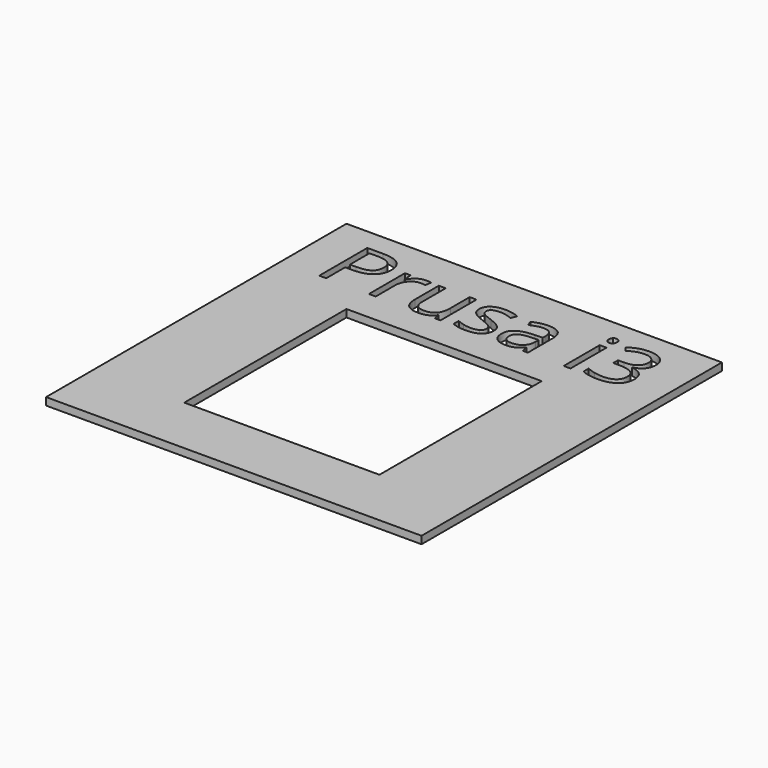
from build123d import *

# Parameters (mm, degrees)
F0_W     = 500
F0_H     = 500
F0_W_2   = 260
F0_H_2   = 270
F0_W_3   = 9.0874223538
F0_H_3   = 59.9699837412
F1_DEPTH = 10
F2_DEPTH = 10
F3_DEPTH = 10


with BuildPart() as f1:
    # F0 (on Top) → F1 (new body)
    with BuildSketch(Plane.XY):
        Rectangle(F0_W, F0_H)
        with Locations((0, -35)):
            Rectangle(F0_W_2, F0_H_2, mode=Mode.SUBTRACT)
        with BuildLine():
            add(Edge.make_bspline(
                [(-178.2553049569, 220.977798943), (-148.2790678284, 220.977798943), (-148.2790678284, 197.6726753344)],
                knots=[0, 0, 0, 1, 1, 1], degree=2))
            add(Edge.make_bspline(
                [(-148.2790678284, 197.6726753344), (-148.2790678284, 185.5210932274), (-156.5698086464, 178.9813008399)],
                knots=[0, 0, 0, 1, 1, 1], degree=2))
            add(Edge.make_bspline(
                [(-156.5698086464, 178.9813008399), (-164.8605494643, 172.4415084523), (-180.2864051361, 172.4415084523)],
                knots=[0, 0, 0, 1, 1, 1], degree=2))
            Line((-180.2864051361, 172.4415084523), (-189.7065076917, 172.4415084523))
            Line((-189.7065076917, 172.4415084523), (-189.7065076917, 140.976965158))
            Line((-189.7065076917, 140.976965158), (-199.0040438571, 140.976965158))
            Line((-199.0040438571, 140.976965158), (-199.0040438571, 220.977798943))
            Line((-199.0040438571, 220.977798943), (-178.2553049569, 220.977798943))
        make_face(mode=Mode.SUBTRACT)
        with BuildLine():
            add(Edge.make_bspline(
                [(-115.886521866, 198.8720750092), (-111.1764705882, 202.0500464104), (-105.5384166423, 202.0500464104)],
                knots=[0, 0, 0, 1, 1, 1], degree=2))
            add(Edge.make_bspline(
                [(-105.5384166423, 202.0500464104), (-101.546254221, 202.0500464104), (-98.377037562, 201.3846860068)],
                knots=[0, 0, 0, 1, 1, 1], degree=2))
            Line((-98.377037562, 201.3846860068), (-99.6377204319, 192.9626240566))
            add(Edge.make_bspline(
                [(-99.6377204319, 192.9626240566), (-103.3497311043, 193.7855698189), (-106.2037770459, 193.7855698189)],
                knots=[0, 0, 0, 1, 1, 1], degree=2))
            add(Edge.make_bspline(
                [(-106.2037770459, 193.7855698189), (-113.4877225164, 193.7855698189), (-118.653020386, 187.8761188663)],
                knots=[0, 0, 0, 1, 1, 1], degree=2))
            add(Edge.make_bspline(
                [(-118.653020386, 187.8761188663), (-123.8183182557, 181.9666679137), (-123.8183182557, 173.1593973088)],
                knots=[0, 0, 0, 1, 1, 1], degree=2))
            Line((-123.8183182557, 173.1593973088), (-123.8183182557, 140.976965158))
            Line((-123.8183182557, 140.976965158), (-132.9057406095, 140.976965158))
            Line((-132.9057406095, 140.976965158), (-132.9057406095, 200.9469488992))
            Line((-132.9057406095, 200.9469488992), (-125.4116813274, 200.9469488992))
            Line((-125.4116813274, 200.9469488992), (-124.3611122691, 189.8459358505))
            Line((-124.3611122691, 189.8459358505), (-123.9233751615, 189.8459358505))
            add(Edge.make_bspline(
                [(-123.9233751615, 189.8459358505), (-120.5965731438, 195.694103608), (-115.886521866, 198.8720750092)],
                knots=[0, 0, 0, 1, 1, 1], degree=2))
        make_face(mode=Mode.SUBTRACT)
        with BuildLine():
            Line((-87.8013090424, 200.9469488992), (-78.6088297828, 200.9469488992))
            Line((-78.6088297828, 200.9469488992), (-78.6088297828, 162.0408747757))
            add(Edge.make_bspline(
                [(-78.6088297828, 162.0408747757), (-78.6088297828, 154.7044008524), (-75.2732730229, 151.0974470857)],
                knots=[0, 0, 0, 1, 1, 1], degree=2))
            add(Edge.make_bspline(
                [(-75.2732730229, 151.0974470857), (-71.937716263, 147.4904933191), (-64.8288656356, 147.4904933191)],
                knots=[0, 0, 0, 1, 1, 1], degree=2))
            add(Edge.make_bspline(
                [(-64.8288656356, 147.4904933191), (-55.40876308, 147.4904933191), (-51.0664109726, 152.6295269623)],
                knots=[0, 0, 0, 1, 1, 1], degree=2))
            add(Edge.make_bspline(
                [(-51.0664109726, 152.6295269623), (-46.7240588652, 157.7685606056), (-46.7240588652, 169.429877152)],
                knots=[0, 0, 0, 1, 1, 1], degree=2))
            Line((-46.7240588652, 169.429877152), (-46.7240588652, 200.9469488992))
            Line((-46.7240588652, 200.9469488992), (-37.6366365114, 200.9469488992))
            Line((-37.6366365114, 200.9469488992), (-37.6366365114, 140.976965158))
            Line((-37.6366365114, 140.976965158), (-45.1306957936, 140.976965158))
            Line((-45.1306957936, 140.976965158), (-46.4439071164, 149.0138184536))
            Line((-46.4439071164, 149.0138184536), (-46.9341726769, 149.0138184536))
            add(Edge.make_bspline(
                [(-46.9341726769, 149.0138184536), (-49.7181806812, 144.5839189246), (-54.6733647392, 142.2288932858)],
                knots=[0, 0, 0, 1, 1, 1], degree=2))
            add(Edge.make_bspline(
                [(-54.6733647392, 142.2288932858), (-59.6285487973, 139.8738676469), (-65.9844915996, 139.8738676469)],
                knots=[0, 0, 0, 1, 1, 1], degree=2))
            add(Edge.make_bspline(
                [(-65.9844915996, 139.8738676469), (-76.9279192896, 139.8738676469), (-82.364614166, 145.0741844852)],
                knots=[0, 0, 0, 1, 1, 1], degree=2))
            add(Edge.make_bspline(
                [(-82.364614166, 145.0741844852), (-87.8013090424, 150.2745013234), (-87.8013090424, 161.708194574)],
                knots=[0, 0, 0, 1, 1, 1], degree=2))
            Line((-87.8013090424, 161.708194574), (-87.8013090424, 200.9469488992))
        make_face(mode=Mode.SUBTRACT)
        with BuildLine():
            add(Edge.make_bspline(
                [(16.5552174094, 167.241191614), (20.3022470505, 163.3015576456), (20.3022470505, 157.330823498)],
                knots=[0, 0, 0, 1, 1, 1], degree=2))
            add(Edge.make_bspline(
                [(20.3022470505, 157.330823498), (20.3022470505, 148.9612900006), (14.0688706383, 144.4175788238)],
                knots=[0, 0, 0, 1, 1, 1], degree=2))
            add(Edge.make_bspline(
                [(14.0688706383, 144.4175788238), (7.835494226, 139.8738676469), (-3.4406136657, 139.8738676469)],
                knots=[0, 0, 0, 1, 1, 1], degree=2))
            add(Edge.make_bspline(
                [(-3.4406136657, 139.8738676469), (-15.3645724768, 139.8738676469), (-22.0356859966, 143.6559162565)],
                knots=[0, 0, 0, 1, 1, 1], degree=2))
            Line((-22.0356859966, 143.6559162565), (-22.0356859966, 152.0779782068))
            add(Edge.make_bspline(
                [(-22.0356859966, 152.0779782068), (-17.7108433735, 149.8892926688), (-12.7644140576, 148.637364541)],
                knots=[0, 0, 0, 1, 1, 1], degree=2))
            add(Edge.make_bspline(
                [(-12.7644140576, 148.637364541), (-7.8179847417, 147.3854364133), (-3.2129903698, 147.3854364133)],
                knots=[0, 0, 0, 1, 1, 1], degree=2))
            add(Edge.make_bspline(
                [(-3.2129903698, 147.3854364133), (3.8958602576, 147.3854364133), (7.7216825781, 149.6529146307)],
                knots=[0, 0, 0, 1, 1, 1], degree=2))
            add(Edge.make_bspline(
                [(7.7216825781, 149.6529146307), (11.5475048985, 151.920392848), (11.5475048985, 156.5779156729)],
                knots=[0, 0, 0, 1, 1, 1], degree=2))
            add(Edge.make_bspline(
                [(11.5475048985, 156.5779156729), (11.5475048985, 160.0798125337), (8.5183641139, 162.5661593049)],
                knots=[0, 0, 0, 1, 1, 1], degree=2))
            add(Edge.make_bspline(
                [(8.5183641139, 162.5661593049), (5.4892233293, 165.052506076), (-3.3355567599, 168.449346031)],
                knots=[0, 0, 0, 1, 1, 1], degree=2))
            add(Edge.make_bspline(
                [(-3.3355567599, 168.449346031), (-11.7050902572, 171.5660342371), (-15.2332513445, 173.8947956495)],
                knots=[0, 0, 0, 1, 1, 1], degree=2))
            add(Edge.make_bspline(
                [(-15.2332513445, 173.8947956495), (-18.7614124317, 176.223557062), (-20.4860966357, 179.1739051672)],
                knots=[0, 0, 0, 1, 1, 1], degree=2))
            add(Edge.make_bspline(
                [(-20.4860966357, 179.1739051672), (-22.2107808396, 182.1242532724), (-22.2107808396, 186.2214725996)],
                knots=[0, 0, 0, 1, 1, 1], degree=2))
            add(Edge.make_bspline(
                [(-22.2107808396, 186.2214725996), (-22.2107808396, 193.5579465229), (-16.240046692, 197.8039964666)],
                knots=[0, 0, 0, 1, 1, 1], degree=2))
            add(Edge.make_bspline(
                [(-16.240046692, 197.8039964666), (-10.2693125443, 202.0500464104), (0.113811648, 202.0500464104)],
                knots=[0, 0, 0, 1, 1, 1], degree=2))
            add(Edge.make_bspline(
                [(0.113811648, 202.0500464104), (9.7965564681, 202.0500464104), (19.0590736649, 198.110412442)],
                knots=[0, 0, 0, 1, 1, 1], degree=2))
            Line((19.0590736649, 198.110412442), (15.8198190687, 190.7214100657))
            add(Edge.make_bspline(
                [(15.8198190687, 190.7214100657), (6.8024346521, 194.4334207381), (-0.5340392713, 194.4334207381)],
                knots=[0, 0, 0, 1, 1, 1], degree=2))
            add(Edge.make_bspline(
                [(-0.5340392713, 194.4334207381), (-6.9950389794, 194.4334207381), (-10.2780672864, 192.411075301)],
                knots=[0, 0, 0, 1, 1, 1], degree=2))
            add(Edge.make_bspline(
                [(-10.2780672864, 192.411075301), (-13.5610955934, 190.3887298639), (-13.5610955934, 186.8343045502)],
                knots=[0, 0, 0, 1, 1, 1], degree=2))
            add(Edge.make_bspline(
                [(-13.5610955934, 186.8343045502), (-13.5610955934, 184.4179957162), (-12.32667695, 182.7283304809)],
                knots=[0, 0, 0, 1, 1, 1], degree=2))
            add(Edge.make_bspline(
                [(-12.32667695, 182.7283304809), (-11.0922583066, 181.0386652456), (-8.3607787552, 179.506585369)],
                knots=[0, 0, 0, 1, 1, 1], degree=2))
            add(Edge.make_bspline(
                [(-8.3607787552, 179.506585369), (-5.6292992037, 177.9745054924), (2.1449118272, 175.0679310979)],
                knots=[0, 0, 0, 1, 1, 1], degree=2))
            add(Edge.make_bspline(
                [(2.1449118272, 175.0679310979), (12.8081877684, 171.1808255824), (16.5552174094, 167.241191614)],
                knots=[0, 0, 0, 1, 1, 1], degree=2))
        make_face(mode=Mode.SUBTRACT)
        with BuildLine():
            Line((78.6963772043, 140.976965158), (71.9552257473, 140.976965158))
            Line((71.9552257473, 140.976965158), (70.151748864, 149.5215934984))
            Line((70.151748864, 149.5215934984), (69.7140117564, 149.5215934984))
            add(Edge.make_bspline(
                [(69.7140117564, 149.5215934984), (65.2315837745, 143.8835395525), (60.7754200192, 141.8787035997)],
                knots=[0, 0, 0, 1, 1, 1], degree=2))
            add(Edge.make_bspline(
                [(60.7754200192, 141.8787035997), (56.3192562638, 139.8738676469), (49.6306332597, 139.8738676469)],
                knots=[0, 0, 0, 1, 1, 1], degree=2))
            add(Edge.make_bspline(
                [(49.6306332597, 139.8738676469), (40.7183057489, 139.8738676469), (35.6580647851, 144.4788620188)],
                knots=[0, 0, 0, 1, 1, 1], degree=2))
            add(Edge.make_bspline(
                [(35.6580647851, 144.4788620188), (30.5978238212, 149.0838563908), (30.5978238212, 157.5584467939)],
                knots=[0, 0, 0, 1, 1, 1], degree=2))
            add(Edge.make_bspline(
                [(30.5978238212, 157.5584467939), (30.5978238212, 175.7157820172), (59.6460582816, 176.5912562324)],
                knots=[0, 0, 0, 1, 1, 1], degree=2))
            Line((59.6460582816, 176.5912562324), (69.8190686622, 176.9239364341))
            Line((69.8190686622, 176.9239364341), (69.8190686622, 180.6534565909))
            add(Edge.make_bspline(
                [(69.8190686622, 180.6534565909), (69.8190686622, 187.7097787654), (66.7899278776, 191.0715997518)],
                knots=[0, 0, 0, 1, 1, 1], degree=2))
            add(Edge.make_bspline(
                [(66.7899278776, 191.0715997518), (63.760787093, 194.4334207381), (57.0721640889, 194.4334207381)],
                knots=[0, 0, 0, 1, 1, 1], degree=2))
            add(Edge.make_bspline(
                [(57.0721640889, 194.4334207381), (49.5781048068, 194.4334207381), (40.1229832826, 189.8459358505)],
                knots=[0, 0, 0, 1, 1, 1], degree=2))
            Line((40.1229832826, 189.8459358505), (37.321465794, 196.7972011192))
            add(Edge.make_bspline(
                [(37.321465794, 196.7972011192), (41.7513653229, 199.1960004688), (47.0304748405, 200.5617402445)],
                knots=[0, 0, 0, 1, 1, 1], degree=2))
            add(Edge.make_bspline(
                [(47.0304748405, 200.5617402445), (52.3095843582, 201.9274800202), (57.6324675866, 201.9274800202)],
                knots=[0, 0, 0, 1, 1, 1], degree=2))
            add(Edge.make_bspline(
                [(57.6324675866, 201.9274800202), (68.3482719807, 201.9274800202), (73.5223245925, 197.1736550317)],
                knots=[0, 0, 0, 1, 1, 1], degree=2))
            add(Edge.make_bspline(
                [(73.5223245925, 197.1736550317), (78.6963772043, 192.4198300432), (78.6963772043, 181.9141394608)],
                knots=[0, 0, 0, 1, 1, 1], degree=2))
            Line((78.6963772043, 181.9141394608), (78.6963772043, 140.976965158))
        make_face(mode=Mode.SUBTRACT)
        with Locations((131.0584900154, 170.9619570286)):
            Rectangle(F0_W_3, F0_H_3, mode=Mode.SUBTRACT)
        with BuildLine():
            add(Edge.make_bspline(
                [(193.8212365031, 216.7842774522), (200.2822362113, 211.4526394816), (200.2822362113, 202.1551033162)],
                knots=[0, 0, 0, 1, 1, 1], degree=2))
            add(Edge.make_bspline(
                [(200.2822362113, 202.1551033162), (200.2822362113, 194.485949191), (195.9836578146, 189.6183125545)],
                knots=[0, 0, 0, 1, 1, 1], degree=2))
            add(Edge.make_bspline(
                [(195.9836578146, 189.6183125545), (191.685079418, 184.750675918), (183.8058114812, 183.1047843934)],
                knots=[0, 0, 0, 1, 1, 1], degree=2))
            Line((183.8058114812, 183.1047843934), (183.8058114812, 182.6670472858))
            add(Edge.make_bspline(
                [(183.8058114812, 182.6670472858), (193.4360278484, 181.4764023532), (198.0847959311, 176.5474825216)],
                knots=[0, 0, 0, 1, 1, 1], degree=2))
            add(Edge.make_bspline(
                [(198.0847959311, 176.5474825216), (202.7335640138, 171.61856269), (202.7335640138, 163.6342378474)],
                knots=[0, 0, 0, 1, 1, 1], degree=2))
            add(Edge.make_bspline(
                [(202.7335640138, 163.6342378474), (202.7335640138, 152.2005445969), (194.8017676241, 146.0372061219)],
                knots=[0, 0, 0, 1, 1, 1], degree=2))
            add(Edge.make_bspline(
                [(194.8017676241, 146.0372061219), (186.8699712344, 139.8738676469), (172.2670613249, 139.8738676469)],
                knots=[0, 0, 0, 1, 1, 1], degree=2))
            add(Edge.make_bspline(
                [(172.2670613249, 139.8738676469), (165.9111185225, 139.8738676469), (160.6320090049, 140.8368892836)],
                knots=[0, 0, 0, 1, 1, 1], degree=2))
            add(Edge.make_bspline(
                [(160.6320090049, 140.8368892836), (155.3528994872, 141.7999109203), (150.3802059449, 144.19871027)],
                knots=[0, 0, 0, 1, 1, 1], degree=2))
            Line((150.3802059449, 144.19871027), (150.3802059449, 152.8483955161))
            add(Edge.make_bspline(
                [(150.3802059449, 152.8483955161), (155.5805227832, 150.2745013234), (161.4637095093, 148.9350257742)],
                knots=[0, 0, 0, 1, 1, 1], degree=2))
            add(Edge.make_bspline(
                [(161.4637095093, 148.9350257742), (167.3468962355, 147.5955502249), (172.5997415267, 147.5955502249)],
                knots=[0, 0, 0, 1, 1, 1], degree=2))
            add(Edge.make_bspline(
                [(172.5997415267, 147.5955502249), (193.3309709426, 147.5955502249), (193.3309709426, 163.844351659)],
                knots=[0, 0, 0, 1, 1, 1], degree=2))
            add(Edge.make_bspline(
                [(193.3309709426, 163.844351659), (193.3309709426, 178.4122426), (170.4635844416, 178.4122426)],
                knots=[0, 0, 0, 1, 1, 1], degree=2))
            Line((170.4635844416, 178.4122426), (162.5843165048, 178.4122426))
            Line((162.5843165048, 178.4122426), (162.5843165048, 186.2214725996))
            Line((162.5843165048, 186.2214725996), (170.5686413474, 186.2214725996))
            add(Edge.make_bspline(
                [(170.5686413474, 186.2214725996), (179.9187059657, 186.2214725996), (185.3904198107, 190.3537108953)],
                knots=[0, 0, 0, 1, 1, 1], degree=2))
            add(Edge.make_bspline(
                [(185.3904198107, 190.3537108953), (190.8621336557, 194.485949191), (190.8621336557, 201.8224231144)],
                knots=[0, 0, 0, 1, 1, 1], degree=2))
            add(Edge.make_bspline(
                [(190.8621336557, 201.8224231144), (190.8621336557, 207.670590872), (186.843707008, 211.014902374)],
                knots=[0, 0, 0, 1, 1, 1], degree=2))
            add(Edge.make_bspline(
                [(186.843707008, 211.014902374), (182.8252803602, 214.3592138761), (175.9265435444, 214.3592138761)],
                knots=[0, 0, 0, 1, 1, 1], degree=2))
            add(Edge.make_bspline(
                [(175.9265435444, 214.3592138761), (170.6736982532, 214.3592138761), (166.0249301705, 212.9321909053)],
                knots=[0, 0, 0, 1, 1, 1], degree=2))
            add(Edge.make_bspline(
                [(166.0249301705, 212.9321909053), (161.3761620878, 211.5051679345), (155.4054279401, 207.670590872)],
                knots=[0, 0, 0, 1, 1, 1], degree=2))
            Line((155.4054279401, 207.670590872), (150.8179430525, 213.7989103784))
            add(Edge.make_bspline(
                [(150.8179430525, 213.7989103784), (155.7381081419, 217.6860158938), (162.1640888815, 219.9009656583)],
                knots=[0, 0, 0, 1, 1, 1], degree=2))
            add(Edge.make_bspline(
                [(162.1640888815, 219.9009656583), (168.590069621, 222.1159154228), (175.7164297328, 222.1159154228)],
                knots=[0, 0, 0, 1, 1, 1], degree=2))
            add(Edge.make_bspline(
                [(175.7164297328, 222.1159154228), (187.3602367949, 222.1159154228), (193.8212365031, 216.7842774522)],
                knots=[0, 0, 0, 1, 1, 1], degree=2))
        make_face(mode=Mode.SUBTRACT)
        with BuildLine():
            add(Edge.make_bspline(
                [(127.2764414058, 212.62577493), (125.7443615292, 214.1315905801), (125.7443615292, 217.1957503333)],
                knots=[0, 0, 0, 1, 1, 1], degree=2))
            add(Edge.make_bspline(
                [(125.7443615292, 217.1957503333), (125.7443615292, 220.3124385394), (127.2764414058, 221.7657257367)],
                knots=[0, 0, 0, 1, 1, 1], degree=2))
            add(Edge.make_bspline(
                [(127.2764414058, 221.7657257367), (128.8085212824, 223.2190129339), (131.1197732105, 223.2190129339)],
                knots=[0, 0, 0, 1, 1, 1], degree=2))
            add(Edge.make_bspline(
                [(131.1197732105, 223.2190129339), (133.3084587485, 223.2190129339), (134.893067078, 221.7394615102)],
                knots=[0, 0, 0, 1, 1, 1], degree=2))
            add(Edge.make_bspline(
                [(134.893067078, 221.7394615102), (136.4776754075, 220.2599100865), (136.4776754075, 217.1957503333)],
                knots=[0, 0, 0, 1, 1, 1], degree=2))
            add(Edge.make_bspline(
                [(136.4776754075, 217.1957503333), (136.4776754075, 214.1315905801), (134.893067078, 212.62577493)],
                knots=[0, 0, 0, 1, 1, 1], degree=2))
            add(Edge.make_bspline(
                [(134.893067078, 212.62577493), (133.3084587485, 211.1199592798), (131.1197732105, 211.1199592798)],
                knots=[0, 0, 0, 1, 1, 1], degree=2))
            add(Edge.make_bspline(
                [(131.1197732105, 211.1199592798), (128.8085212824, 211.1199592798), (127.2764414058, 212.62577493)],
                knots=[0, 0, 0, 1, 1, 1], degree=2))
        make_face(mode=Mode.SUBTRACT)
    extrude(amount=F1_DEPTH)


with BuildPart() as f2:
    # F0 (on Top) → F2 (new body)
    with BuildSketch(Plane.XY):
        with BuildLine():
            Line((-189.7065076917, 212.9234361632), (-189.7065076917, 180.4258332949))
            Line((-189.7065076917, 180.4258332949), (-181.3194647101, 180.4258332949))
            add(Edge.make_bspline(
                [(-181.3194647101, 180.4258332949), (-168.9577687914, 180.4258332949), (-163.4335264935, 184.4179957162)],
                knots=[0, 0, 0, 1, 1, 1], degree=2))
            add(Edge.make_bspline(
                [(-163.4335264935, 184.4179957162), (-157.9092841956, 188.4101581376), (-157.9092841956, 197.2349382268)],
                knots=[0, 0, 0, 1, 1, 1], degree=2))
            add(Edge.make_bspline(
                [(-157.9092841956, 197.2349382268), (-157.9092841956, 205.1667346165), (-163.1096010339, 209.0450853898)],
                knots=[0, 0, 0, 1, 1, 1], degree=2))
            add(Edge.make_bspline(
                [(-163.1096010339, 209.0450853898), (-168.3099178722, 212.9234361632), (-179.3058740151, 212.9234361632)],
                knots=[0, 0, 0, 1, 1, 1], degree=2))
            Line((-179.3058740151, 212.9234361632), (-189.7065076917, 212.9234361632))
        make_face()
    extrude(amount=F2_DEPTH)


with BuildPart() as f3:
    # F0 (on Top) → F3 (new body)
    with BuildSketch(Plane.XY):
        with BuildLine():
            add(Edge.make_bspline(
                [(43.0995956143, 149.9505758638), (46.076207946, 147.3854364133), (51.434110143, 147.3854364133)],
                knots=[0, 0, 0, 1, 1, 1], degree=2))
            add(Edge.make_bspline(
                [(51.434110143, 147.3854364133), (59.9262100304, 147.3854364133), (64.7675824405, 152.034204496)],
                knots=[0, 0, 0, 1, 1, 1], degree=2))
            add(Edge.make_bspline(
                [(64.7675824405, 152.034204496), (69.6089548505, 156.6829725787), (69.6089548505, 165.052506076)],
                knots=[0, 0, 0, 1, 1, 1], degree=2))
            Line((69.6089548505, 165.052506076), (69.6089548505, 170.462936726))
            Line((69.6089548505, 170.462936726), (60.5215324968, 170.0952375556))
            add(Edge.make_bspline(
                [(60.5215324968, 170.0952375556), (49.6831617126, 169.7100289009), (44.9030724976, 166.7246618271)],
                knots=[0, 0, 0, 1, 1, 1], degree=2))
            add(Edge.make_bspline(
                [(44.9030724976, 166.7246618271), (40.1229832826, 163.7392947532), (40.1229832826, 157.4533898881)],
                knots=[0, 0, 0, 1, 1, 1], degree=2))
            add(Edge.make_bspline(
                [(40.1229832826, 157.4533898881), (40.1229832826, 152.5157153144), (43.0995956143, 149.9505758638)],
                knots=[0, 0, 0, 1, 1, 1], degree=2))
        make_face()
    extrude(amount=F3_DEPTH)


solid = Compound([f1.part, f2.part, f3.part])
